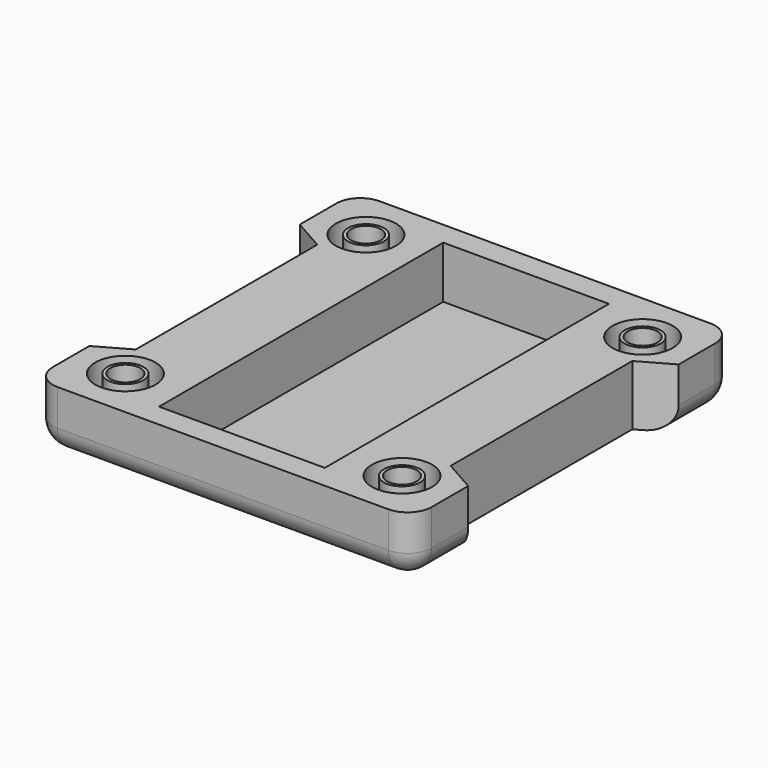
from build123d import *

# Parameters (mm, degrees)
F0_W      = 80
F0_H      = 85
F1_DEPTH  = 25.4
F2_W      = 35
F2_H      = 22
F3_DEPTH  = 37.5
F4_W      = 80
F4_H      = 85
F5_DEPTH  = 12.7
F6_R      = 3.1623
F7_DEPTH  = 6.35
F8_R      = 5.08
F9_R      = 5.08
F10_R     = 5.08
F11_R     = 5.08
F12_R     = 1.27
F13_DEPTH = 2.54
F15_DEPTH = 25.4
F16_R     = 6.35
F16_R_2   = 3.81
F17_DEPTH = 6.35


with BuildPart() as f1:
    # F0 (on Top) → F1 (new body)
    with BuildSketch(Plane.XY):
        Rectangle(F0_W, F0_H)
    extrude(amount=F1_DEPTH)

    # F2 (on Front) → F3 (cut, symmetric)
    with BuildSketch(Plane.XZ):
        with Locations((0, 12.7)):
            Rectangle(F2_W, F2_H)
    extrude(amount=F3_DEPTH, both=True, mode=Mode.SUBTRACT)

    # F4 (on face) → F5 (cut)
    with BuildSketch(Plane.XY.offset(25.4)):
        Rectangle(F4_W, F4_H)
    extrude(amount=-F5_DEPTH, mode=Mode.SUBTRACT)

    # F6 (on face) → F7 (cut)
    with BuildSketch(Plane.XY.offset(12.7)):
        with Locations((-29.21, -31.75)):
            Circle(F6_R)
        with Locations((29.21, -31.75)):
            Circle(F6_R)
        with Locations((29.21, 31.75)):
            Circle(F6_R)
        with Locations((-29.21, 31.75)):
            Circle(F6_R)
    extrude(amount=-F7_DEPTH, mode=Mode.SUBTRACT)

    # F8
    f8_edges = [f1.edges().sort_by_distance(p)[0] for p in [
        (0, -42.5, 0),
    ]]
    fillet(f8_edges, radius=F8_R)

    # F9
    f9_edges = [f1.edges().sort_by_distance(p)[0] for p in [
        (40, 2.54, 0),
    ]]
    fillet(f9_edges, radius=F9_R)

    # F10
    f10_edges = [f1.edges().sort_by_distance(p)[0] for p in [
        (-2.54, 42.5, 0),
    ]]
    fillet(f10_edges, radius=F10_R)

    # F11
    f11_edges = [f1.edges().sort_by_distance(p)[0] for p in [
        (-40, 0, 0),
    ]]
    fillet(f11_edges, radius=F11_R)

    # F12 (on face) → F13 (cut)
    with BuildSketch(Plane(origin=(0, 0, 0), x_dir=(1, 0, 0), z_dir=(0, 0, -1))):
        with Locations((-21.31, 26.67)):
            Circle(F12_R)
        with Locations((-21.31, -26.67)):
            Circle(F12_R)
        with Locations((21.31, 26.67)):
            Circle(F12_R)
        with Locations((21.31, -26.67)):
            Circle(F12_R)
    extrude(amount=-F13_DEPTH, mode=Mode.SUBTRACT)

    # F14 (on face) → F15 (cut)
    with BuildSketch(Plane.XY.offset(12.7)):
        Polygon((-40, 27.7749088), (-40, -27.7749088), (-33.2500008, -23.9649088), (-33.2500008, 23.9649088), align=None)
        Polygon((33.2500008, -23.9649088), (40, -27.7749088), (40, 27.7749088), (33.2500008, 23.9649088), align=None)
    extrude(amount=-F15_DEPTH, mode=Mode.SUBTRACT)

    # F16 (on face) → F17 (cut)
    with BuildSketch(Plane.XY.offset(12.7)):
        with Locations((-29.21, -31.75)):
            Circle(F16_R)
        with Locations((-29.21, -31.75)):
            Circle(F16_R_2, mode=Mode.SUBTRACT)
        with Locations((29.21, -31.75)):
            Circle(F16_R)
        with Locations((29.21, -31.75)):
            Circle(F16_R_2, mode=Mode.SUBTRACT)
        with Locations((29.21, 31.75)):
            Circle(F16_R)
        with Locations((29.21, 31.75)):
            Circle(F16_R_2, mode=Mode.SUBTRACT)
        with Locations((-29.21, 31.75)):
            Circle(F16_R)
        with Locations((-29.21, 31.75)):
            Circle(F16_R_2, mode=Mode.SUBTRACT)
    extrude(amount=-F17_DEPTH, mode=Mode.SUBTRACT)


solid = f1.part
